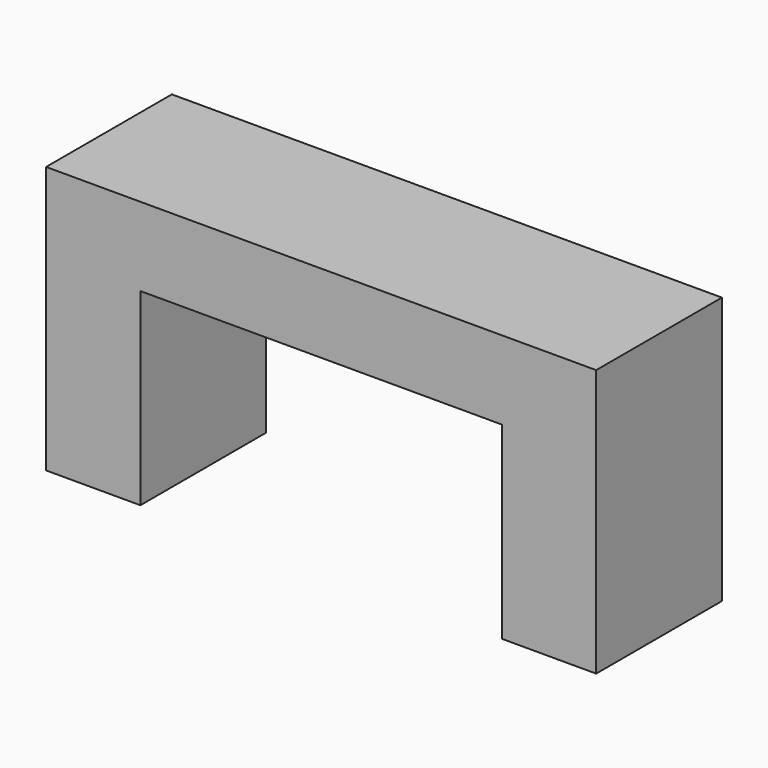
from build123d import *

# Parameters (mm, degrees)
F0_W     = 304.8
F0_H     = 609.6
F1_DEPTH = 508


with BuildPart() as f1:
    # F0 (on Front) → F1 (new body)
    with BuildSketch(Plane.XZ):
        Polygon((584.2, -127), (889, -127), (889, 127), (-889, 127), (-889, -127), (-584.2, -127), align=None)
        with Locations((-736.6, -431.8)):
            Rectangle(F0_W, F0_H)
        with Locations((736.6, -431.8)):
            Rectangle(F0_W, F0_H)
    extrude(amount=F1_DEPTH)


solid = f1.part
